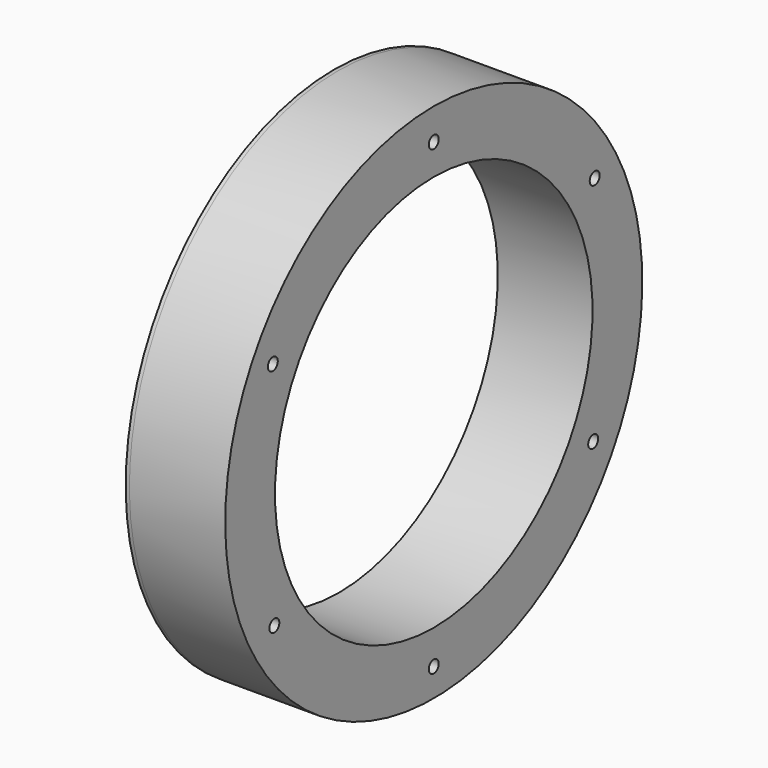
from build123d import *

# Parameters (mm, degrees)
F2_DEPTH = 0.7
F3_DEPTH = 0.35
F5_D     = 4.2
F6_DEPTH = 1.25


with BuildPart() as f1:
    # F0 (on Front) → F1 (revolve)
    with BuildSketch(Plane.XZ):
        Polygon((-16, 84), (-16, 67), (16, 67), (16, 84), (16.35, 84), (16.35, 88), (-16.35, 88), (-16.35, 84), align=None)
    revolve(axis=Axis((-7.2666932824, 0, 0), (1, 0, 0)))

    # F2 (cut): a face of the model
    f2_faces = [f1.faces().sort_by_distance(p)[0] for p in [
        (16.35, 0, -86.4890158698),
    ]]
    extrude(f2_faces, amount=-F2_DEPTH, mode=Mode.SUBTRACT)

    # F3 (add): a face of the model
    f3_faces = [f1.faces().sort_by_distance(p)[0] for p in [
        (15.65, 0, -86.4890158698),
    ]]
    extrude(f3_faces, amount=F3_DEPTH)

    # F5 (through all)
    with Locations(Plane.YZ.offset(16)):
        with Locations((-67.9149415737, 38.9929093129), (0, 77.3538361923), (67.9149415737, 38.9929093129), (67.2629921577, -39.0070906871), (0, -78.5), (-67.2629921577, -39.0070906871)):
            Hole(F5_D / 2)

    # F6 (add): a face of the model
    f6_faces = [f1.faces().sort_by_distance(p)[0] for p in [
        (-16.35, 0, -85.5109841302),
    ]]
    extrude(f6_faces, amount=F6_DEPTH)


solid = f1.part
